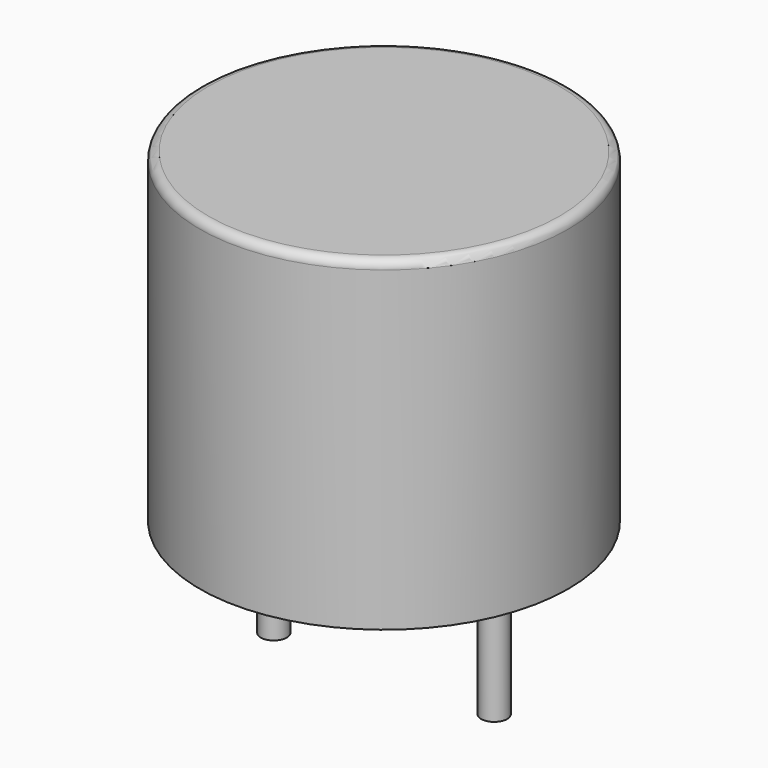
from build123d import *

# Parameters (mm, degrees)
CYLINDER002_R     = 0.3
CYLINDER002_DEPTH = 3.1
CYLINDER003_R     = 0.3
CYLINDER003_DEPTH = 3.1
CYLINDER001_R     = 1.6
CYLINDER001_DEPTH = 0.5
CYLINDER_R        = 4.25
CYLINDER_DEPTH    = 7.5
FILLET_R          = 0.2


with BuildPart() as pin1:
    # Cylinder002 → Cylinder002 (new body)
    with BuildSketch(Plane(origin=(-2.54, 0, -2.6), x_dir=(1, 0, 0), z_dir=(0, 0, 1))):
        Circle(CYLINDER002_R)
    extrude(amount=CYLINDER002_DEPTH)


with BuildPart() as pin2:
    # Cylinder003 → Cylinder003 (new body)
    with BuildSketch(Plane(origin=(2.54, 0, -2.6), x_dir=(1, 0, 0), z_dir=(0, 0, 1))):
        Circle(CYLINDER003_R)
    extrude(amount=CYLINDER003_DEPTH)


with BuildPart() as fuss:
    # Cylinder001 → Cylinder001 (new body)
    with BuildSketch(Plane.XY):
        Circle(CYLINDER001_R)
    extrude(amount=CYLINDER001_DEPTH)


with BuildPart() as obj1:
    # Cylinder → Cylinder (new body)
    with BuildSketch(Plane.XY.offset(0.5)):
        Circle(CYLINDER_R)
    extrude(amount=CYLINDER_DEPTH)

    # Fusion: union Fuss
    add(fuss.part)

    # Fillet
    fillet_edges = [obj1.edges().sort_by_distance(p)[0] for p in [
        (-4.25, 0, 8),
    ]]
    fillet(fillet_edges, radius=FILLET_R)

    # Fusion001: union pin1, pin2
    add(pin1.part)
    add(pin2.part)


solid = obj1.part
